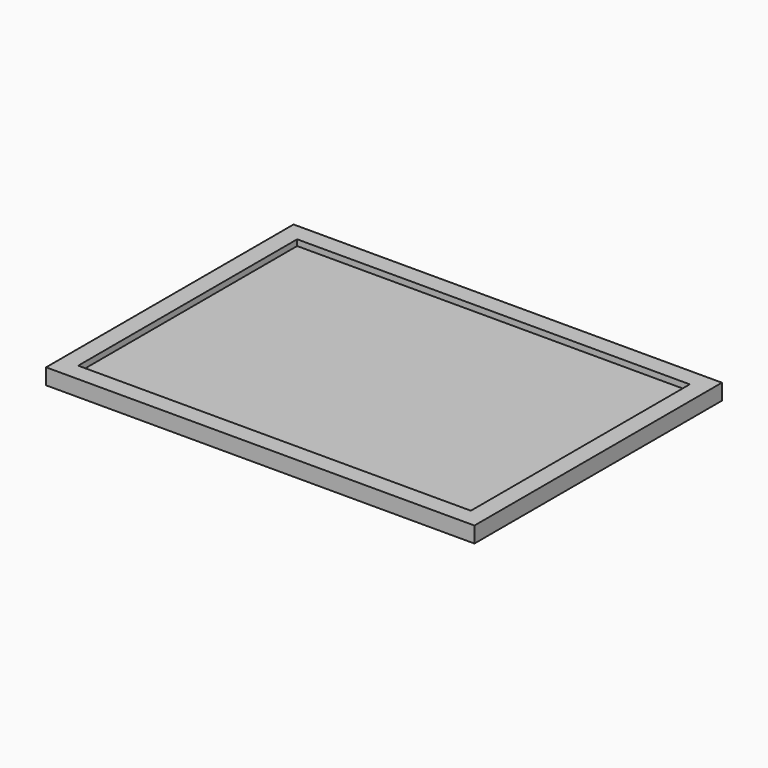
from build123d import *

# Parameters (mm, degrees)
F0_W     = 1080
F0_H     = 780
F1_DEPTH = 40
F2_R     = 3
F3_DEPTH = 12
F4_W     = 990
F4_H     = 690
F5_DEPTH = 15


with BuildPart() as f1:
    # F0 (on Top) → F1 (new body)
    with BuildSketch(Plane.XY):
        with Locations((-540, 390)):
            Rectangle(F0_W, F0_H)
    extrude(amount=F1_DEPTH)

    # F2 (on face) → F3 (cut)
    with BuildSketch(Plane(origin=(0, 0, 0), x_dir=(1, 0, 0), z_dir=(0, 0, -1))):
        with Locations((-1010, -70)):
            Circle(F2_R)
    extrude(amount=-F3_DEPTH, mode=Mode.SUBTRACT)

    # F4 (on face) → F5 (cut)
    with BuildSketch(Plane.XY.offset(40)):
        with Locations((-540, 390)):
            Rectangle(F4_W, F4_H)
    extrude(amount=-F5_DEPTH, mode=Mode.SUBTRACT)


solid = f1.part
